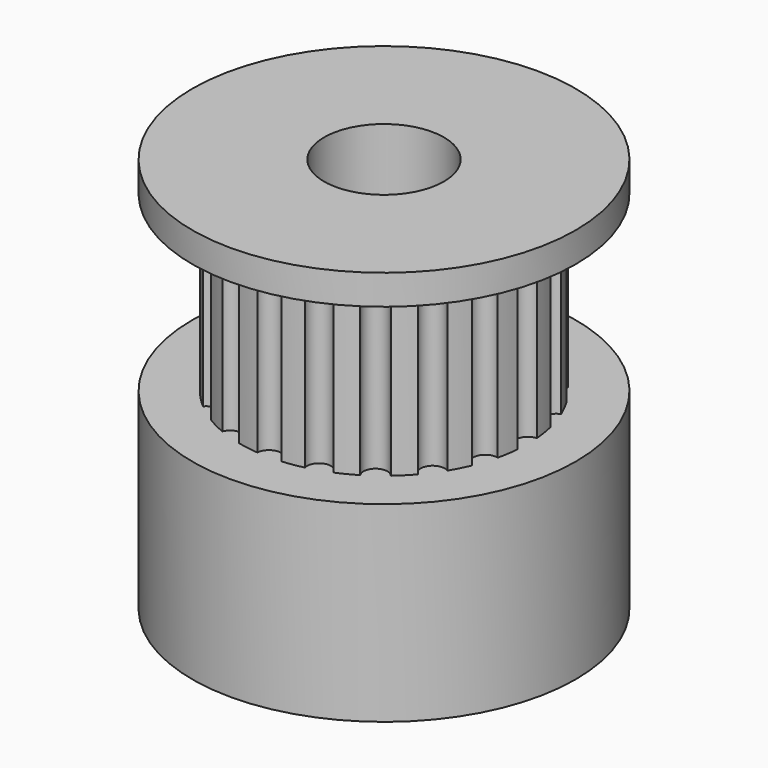
from build123d import *

# Parameters (mm, degrees)
SKETCH025_R              = 8
PAD014_DEPTH             = 8
SKETCH026_R              = 6
PAD015_DEPTH             = 7.25
SKETCH027_R              = 0.5
POCKET008_DEPTH          = 7.25
POLARPATTERN_COUNT       = 20
SKETCH028_R              = 8
PAD016_DEPTH             = 1.25
SKETCH029_R              = 2.5
POCKET009_DEPTH          = 16.5
CLONE005_PLACEMENT_ANGLE = 180


with BuildPart() as part:
    # Sketch025 → Pad014 (new body)
    with BuildSketch(Plane(origin=(20, -80, 0), x_dir=(1, 0, 0), z_dir=(0, 0, -1))):
        Circle(SKETCH025_R)
    extrude(amount=PAD014_DEPTH)

    # Sketch026 → Pad015 (new body)
    with BuildSketch(Plane(origin=(20, -80, -8), x_dir=(1, 0, 0), z_dir=(0, 0, -1))):
        Circle(SKETCH026_R)
    extrude(amount=PAD015_DEPTH)

    # Sketch027 → Pocket008 (cut)
    with BuildSketch(Plane(origin=(20, -80, -15.25), x_dir=(1, 0, 0), z_dir=(0, 0, -1))):
        with Locations((6, 0)):
            Circle(SKETCH027_R)
    pocket008 = extrude(amount=-POCKET008_DEPTH, mode=Mode.SUBTRACT)

    # PolarPattern: Pocket008 ×20 about axis
    polarpattern_axis = Axis((20, -80, -15.25), (0, 0, -1))
    for i in range(1, POLARPATTERN_COUNT):
        add(pocket008.rotate(polarpattern_axis, i * 360 / POLARPATTERN_COUNT), mode=Mode.SUBTRACT)

    # Sketch028 → Pad016 (new body)
    with BuildSketch(Plane(origin=(20, -80, -15.25), x_dir=(1, 0, 0), z_dir=(0, 0, -1))):
        Circle(SKETCH028_R)
    extrude(amount=PAD016_DEPTH)

    # Sketch029 → Pocket009 (cut)
    with BuildSketch(Plane(origin=(20, -80, -16.5), x_dir=(1, 0, 0), z_dir=(0, 0, -1))):
        Circle(SKETCH029_R)
    extrude(amount=-POCKET009_DEPTH, mode=Mode.SUBTRACT)


with BuildPart() as part_1:
    # Clone005 placement: moved
    add(part.part.moved(Location((-6, -192, -13))).rotate(Axis((-6, -192, -13), (-1, 0, 0)), CLONE005_PLACEMENT_ANGLE))


with BuildPart() as part_2:
    # Clone006 placement: moved
    add(part_1.part.moved(Location((-31, -0.5, 0))))


solid = part_2.part
